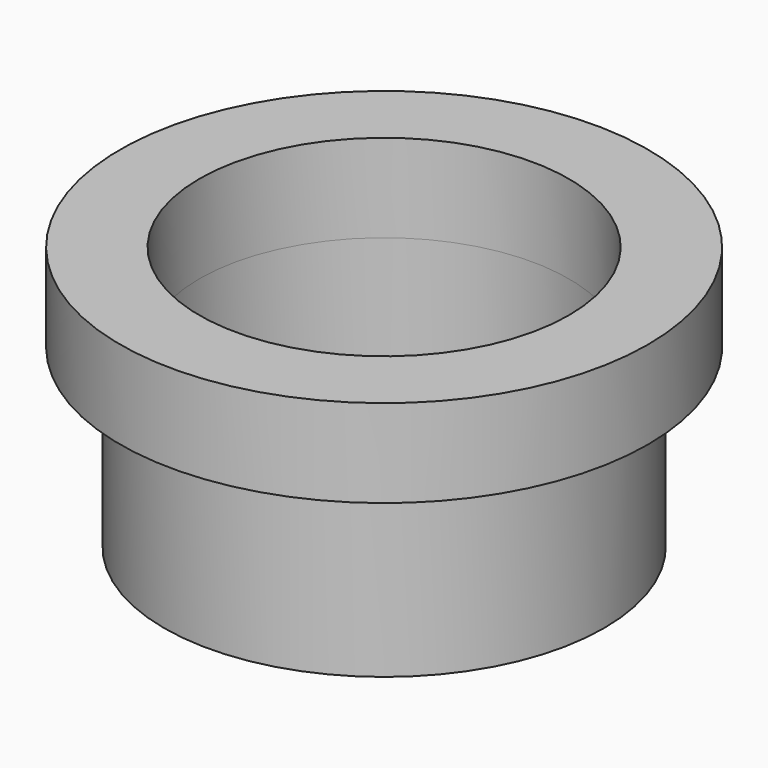
from build123d import *

# Parameters (mm, degrees)
F0_R     = 12.5
F1_DEPTH = 10
F2_R     = 15
F2_R_2   = 12.5
F3_DEPTH = 5
F4_R     = 10.5
F5_DEPTH = 50.6


with BuildPart() as f1:
    # F0 (on Top) → F1 (new body)
    with BuildSketch(Plane.XY):
        Circle(F0_R)
    extrude(amount=F1_DEPTH)


with BuildPart() as f3:
    # F2 (on face) → F3 (new body)
    with BuildSketch(Plane.XY.offset(10)):
        Circle(F2_R)
        Circle(F2_R_2, mode=Mode.SUBTRACT)
        Circle(F2_R_2)
    extrude(amount=F3_DEPTH)


with BuildPart() as f5_tool:
    # F4 (on face) → F5 (new body)
    with BuildSketch(Plane(origin=(0, 0, 0), x_dir=(1, 0, 0), z_dir=(0, 0, -1))):
        Circle(F4_R)
    extrude(amount=-F5_DEPTH)


with BuildPart() as f1_1:
    add(f1.part)

    # F5: cut by f5_tool
    add(f5_tool.part, mode=Mode.SUBTRACT)


with BuildPart() as f3_1:
    add(f3.part)

    # F5: cut by f5_tool
    add(f5_tool.part, mode=Mode.SUBTRACT)


solid = Compound([f1_1.part, f3_1.part])
